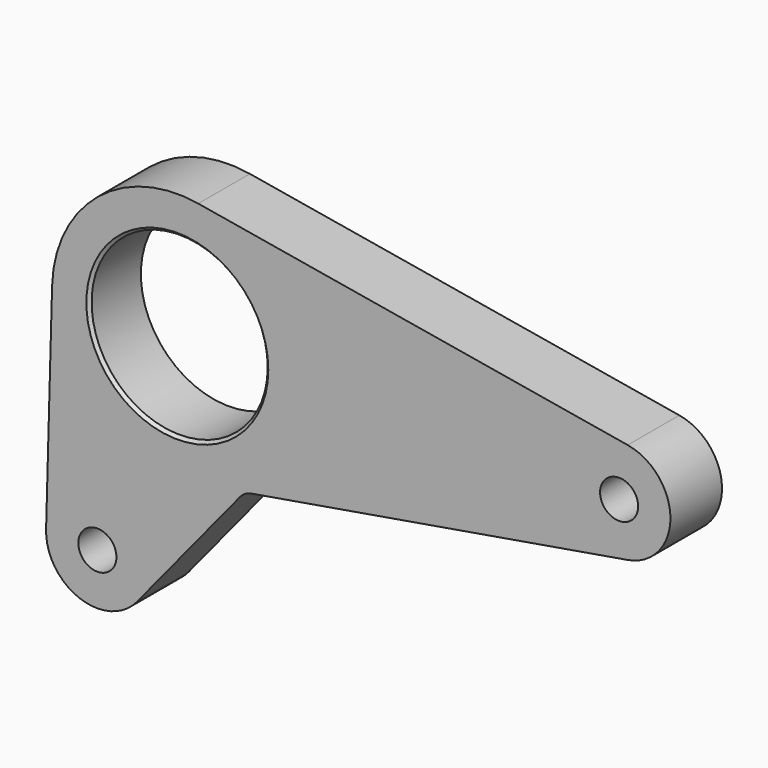
from build123d import *

# Parameters (mm, degrees)
F0_R     = 6.5
F0_R_2   = 30.0355
F1_DEPTH = 11
F2_SIZE  = 1


with BuildPart() as f1:
    # F0 (on Front) → F1 (new body, symmetric)
    with BuildSketch(Plane.XZ):
        with BuildLine():
            Line((153.640272, 17.252928), (7.155807, 42.132142))
            ThreePointArc((7.155807, 42.132142), (-27.1167, 33.030404), (-42.719017, 1.186816))
            Line((-42.719017, 1.186816), (-44.769843, -72.631916))
            ThreePointArc((-44.769843, -72.631916), (-33.393205, -89.514164), (-13.739154, -84.207896))
            Line((-13.739154, -84.207896), (21.417525, -41.292469))
            ThreePointArc((21.417525, -41.292469), (23.139594, -39.826025), (25.266411, -39.056201))
            Line((25.266411, -39.056201), (153.640272, -17.252928))
            ThreePointArc((153.640272, -17.252928), (168.21, 0), (153.640272, 17.252928))
        make_face()
        with Locations((-27.276593, -73.117912)):
            Circle(F0_R, mode=Mode.SUBTRACT)
        Circle(F0_R_2, mode=Mode.SUBTRACT)
        with Locations((150.71, 0)):
            Circle(F0_R, mode=Mode.SUBTRACT)
    extrude(amount=F1_DEPTH, both=True)

    # F2
    f2_edges = [f1.edges().sort_by_distance(p)[0] for p in [
        (-30.0355, -11, 0),
    ]]
    chamfer(f2_edges, length=F2_SIZE)


solid = f1.part
